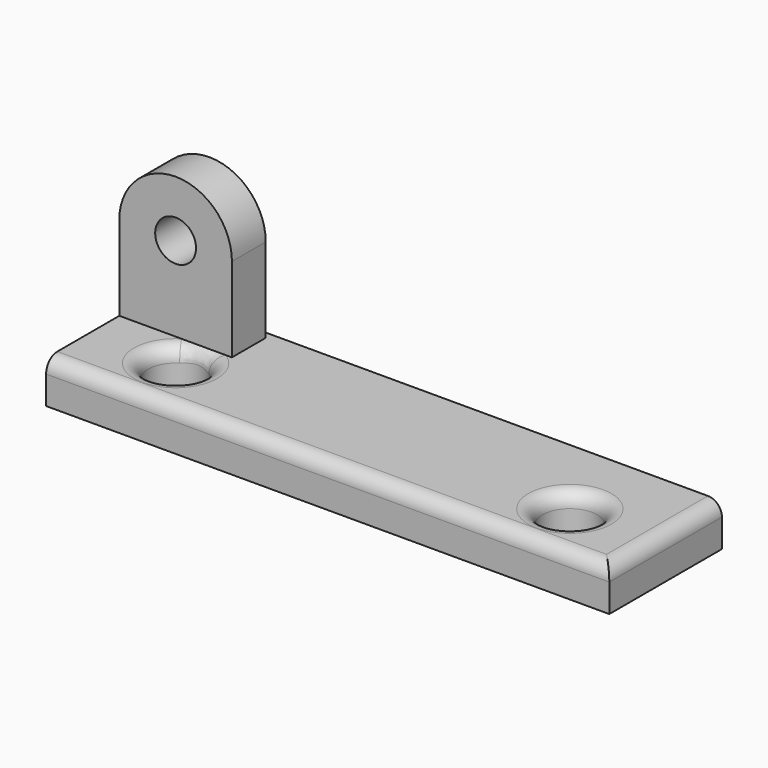
from build123d import *

# Parameters (mm, degrees)
SKETCH011_R  = 1.45
PAD009_DEPTH = 1.5
SKETCH010_W  = 40
SKETCH010_H  = 10
SKETCH010_R  = 1.95
PAD010_DEPTH = 3
FILLET_R     = 1
FILLET001_R  = 1


with BuildPart() as part:
    # Sketch011 → Pad009 (new body, symmetric)
    with BuildSketch(Plane.XZ):
        with BuildLine():
            ThreePointArc((4, 9), (0, 13), (-4, 9))
            Line((-4, 0), (-4, 9))
            Line((4, 0), (-4, 0))
            Line((4, 9), (4, 0))
        make_face()
        with Locations((0, 9)):
            Circle(SKETCH011_R, mode=Mode.SUBTRACT)
    extrude(amount=PAD009_DEPTH, both=True)

    # Sketch010 → Pad010 (join)
    with BuildSketch(Plane.XY):
        with Locations((16, -3)):
            Rectangle(SKETCH010_W, SKETCH010_H)
        with Locations((2, -4)):
            Circle(SKETCH010_R, mode=Mode.SUBTRACT)
        with Locations((30, -4)):
            Circle(SKETCH010_R, mode=Mode.SUBTRACT)
    extrude(amount=PAD010_DEPTH)

    # Fillet
    fillet_edges = [part.edges().sort_by_distance(p)[0] for p in [
        (28.05, -4, 3),
        (0.05, -4, 3),
    ]]
    fillet(fillet_edges, radius=FILLET_R)

    # Fillet001
    fillet001_edges = [part.edges().sort_by_distance(p)[0] for p in [
        (16, -8, 3),
        (36, -3, 3),
    ]]
    fillet(fillet001_edges, radius=FILLET001_R)


solid = part.part
